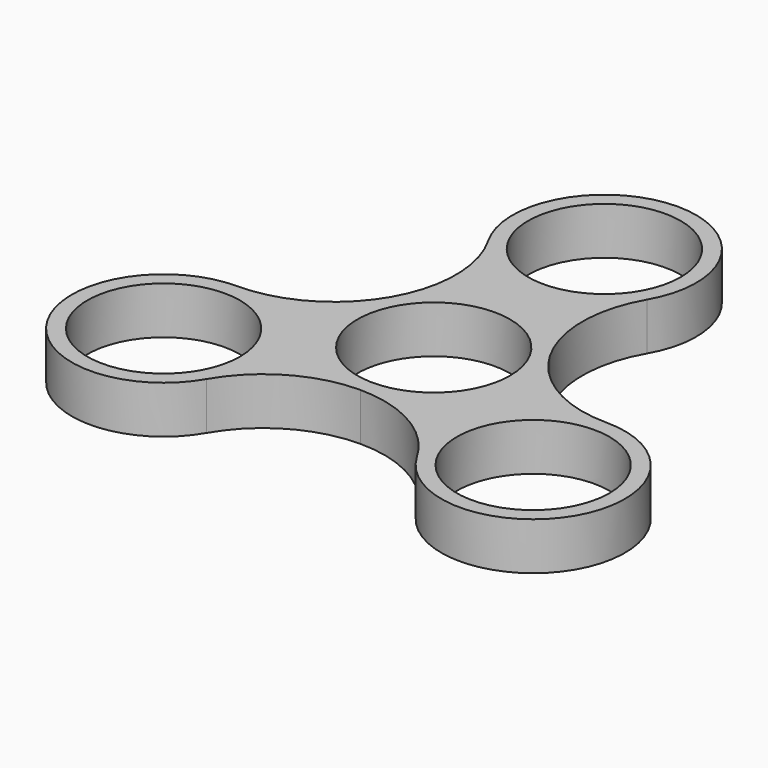
from build123d import *

# Parameters (mm, degrees)
F0_R     = 11.25
F1_DEPTH = 7


with BuildPart() as f1:
    # F0 (on Top) → F1 (new body)
    with BuildSketch(Plane.XY):
        with BuildLine():
            ThreePointArc((11.724252, 6.769), (9.322891, 15.731), (11.724252, 24.693))
            ThreePointArc((11.724252, 24.693), (0, 45), (-11.724252, 24.693))
            ThreePointArc((-11.724252, 24.693), (-9.322891, 15.731), (-11.724252, 6.769))
            ThreePointArc((-11.724252, 6.769), (0, 13.538), (11.724252, 6.769))
        make_face()
        with Locations((0, 31.462)):
            Circle(F0_R, mode=Mode.SUBTRACT)
        with BuildLine():
            ThreePointArc((0, -13.538), (-11.724252, -6.769), (-11.724252, 6.769))
            ThreePointArc((-11.724252, 6.769), (-18.284891, 0.208361), (-27.246891, -2.193))
            ThreePointArc((-27.246891, -2.193), (-38.971143, -22.5), (-15.522639, -22.5))
            ThreePointArc((-15.522639, -22.5), (-8.962, -15.939361), (0, -13.538))
        make_face()
        with Locations((-27.246891, -15.731)):
            Circle(F0_R, mode=Mode.SUBTRACT)
        with BuildLine():
            ThreePointArc((13.538, 0), (13.076704, 3.503892), (11.724252, 6.769))
            ThreePointArc((11.724252, 6.769), (0, 13.538), (-11.724252, 6.769))
            ThreePointArc((-11.724252, 6.769), (-11.724252, -6.769), (0, -13.538))
            ThreePointArc((0, -13.538), (9.572812, -9.572812), (13.538, 0))
        make_face()
        Circle(F0_R, mode=Mode.SUBTRACT)
        with BuildLine():
            ThreePointArc((27.246891, -2.193), (18.284891, 0.208361), (11.724252, 6.769))
            ThreePointArc((11.724252, 6.769), (13.076704, 3.503892), (13.538, 0))
            ThreePointArc((13.538, 0), (9.572812, -9.572812), (0, -13.538))
            ThreePointArc((0, -13.538), (8.962, -15.939361), (15.522639, -22.5))
            ThreePointArc((15.522639, -22.5), (38.971143, -22.5), (27.246891, -2.193))
        make_face()
        with Locations((27.246891, -15.731)):
            Circle(F0_R, mode=Mode.SUBTRACT)
    extrude(amount=F1_DEPTH)


solid = f1.part
